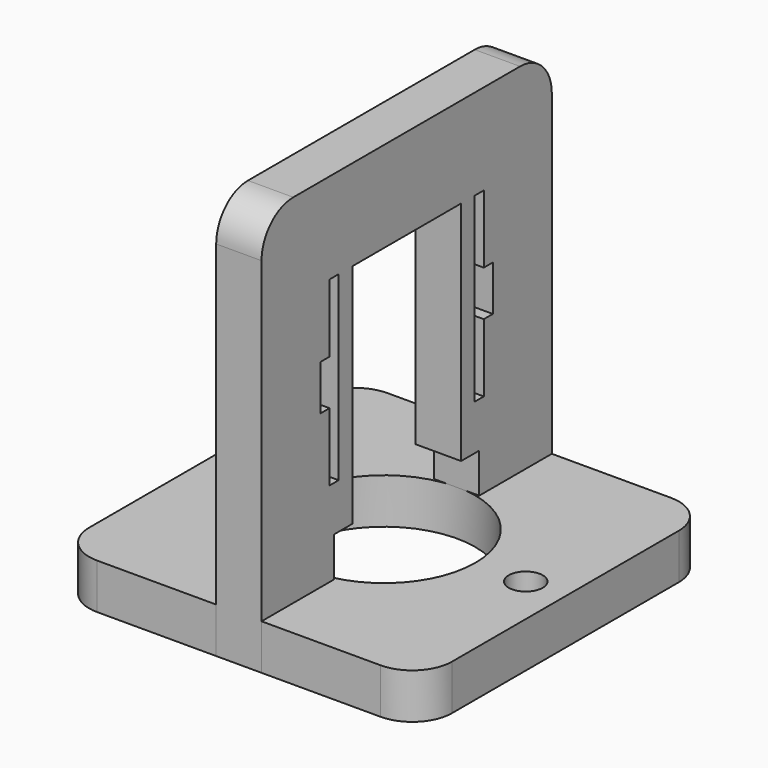
from build123d import *

# Parameters (mm, degrees)
SKETCH_R          = 8.05
SKETCH_R_2        = 1.5
PAD_DEPTH         = 4
PAD001_DEPTH      = 2
PAD001_DEPTH_BACK = 2


with BuildPart() as body:
    # Sketch → Pad (new body)
    with BuildSketch(Plane.XY):
        with BuildLine():
            Line((-12.5, 16), (-2, 16))
            Line((-2, 12), (-2, 16))
            Line((-2, 12), (2, 12))
            Line((2, 16), (2, 12))
            Line((2, 16), (12.5, 16))
            ThreePointArc((16, 12.5), (14.974874, 14.974874), (12.5, 16))
            Line((16, 12.5), (16, -12.5))
            ThreePointArc((12.5, -16), (14.974874, -14.974874), (16, -12.5))
            Line((12.5, -16), (2, -16))
            Line((2, -16), (2, -12))
            Line((2, -12), (-2, -12))
            Line((-2, -12), (-2, -16))
            Line((-2, -16), (-12.5, -16))
            ThreePointArc((-16, -12.5), (-14.974874, -14.974874), (-12.5, -16))
            Line((-16, -12.5), (-16, 12.5))
            ThreePointArc((-12.5, 16), (-14.974874, 14.974874), (-16, 12.5))
        make_face()
        Circle(SKETCH_R, mode=Mode.SUBTRACT)
        with Locations((-12.5, 0)):
            Circle(SKETCH_R_2, mode=Mode.SUBTRACT)
        with Locations((12.5, 0)):
            Circle(SKETCH_R_2, mode=Mode.SUBTRACT)
    extrude(amount=PAD_DEPTH)


with BuildPart() as body002:
    # Sketch002 → Pad001 (new body, two sides)
    with BuildSketch(Plane.YZ) as pad001_sk:
        with BuildLine():
            Line((-16, 0), (-12, 0))
            Line((-12, 4), (-12, 0))
            Line((-8, 4), (-12, 4))
            Line((-8, 7.5), (-8, 4))
            Line((-6, 7.5), (-8, 7.5))
            Line((-6, 27.5), (-6, 7.5))
            Line((6, 27.5), (-6, 27.5))
            Line((6, 7.5), (6, 27.5))
            Line((8, 7.5), (6, 7.5))
            Line((8, 4), (8, 7.5))
            Line((12, 4), (8, 4))
            Line((12, 0), (12, 4))
            Line((12, 0), (16, 0))
            Line((16, 0), (16, 32))
            ThreePointArc((16, 32), (14.974874, 34.474874), (12.5, 35.5))
            Line((12.5, 35.5), (-12.5, 35.5))
            ThreePointArc((-12.5, 35.5), (-14.974874, 34.474874), (-16, 32))
            Line((-16, 32), (-16, 0))
        make_face()
        Polygon((-8.5, 27.5), (-7.5, 27.5), (-7.5, 11.5), (-8.5, 11.5), (-8.5, 17.5), (-9.5, 17.5), (-9.5, 21.5), (-8.5, 21.5), align=None, mode=Mode.SUBTRACT)
        Polygon((7.5, 27.5), (8.5, 27.5), (8.5, 21.5), (9.5, 21.5), (9.5, 17.5), (8.5, 17.5), (8.5, 11.5), (7.5, 11.5), align=None, mode=Mode.SUBTRACT)
    extrude(amount=PAD001_DEPTH)
    extrude(pad001_sk.sketch, amount=-PAD001_DEPTH_BACK)


solid = Compound([body.part, body002.part])
